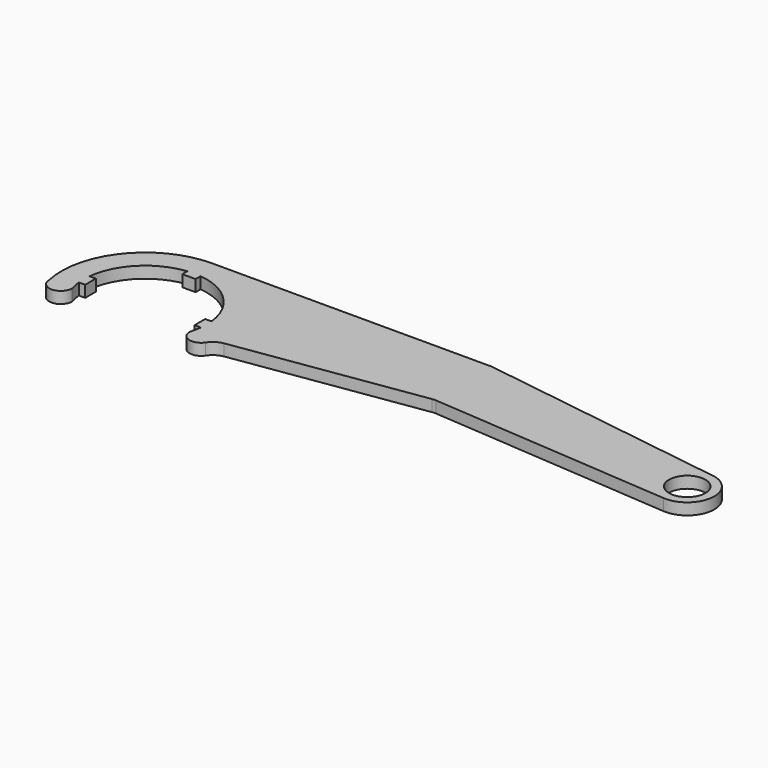
from build123d import *

# Parameters (mm, degrees)
F0_R     = 5.196102
F1_DEPTH = 3.302
F2_R     = 5.08


with BuildPart() as f1:
    # F0 (on Top) → F1 (new body)
    with BuildSketch(Plane.XY):
        with BuildLine():
            ThreePointArc((17.42216, -1.905), (17.171429, -3.507522), (16.773618, -5.08))
            ThreePointArc((16.773618, -5.08), (20.051467, -8.357849), (23.329316, -5.08))
            Line((23.329316, -5.08), (79.846062, 3.404097))
            Line((79.846062, 3.404097), (149.504127, -1.770501))
            ThreePointArc((149.504127, -1.770501), (157.802675, 5.538416), (150.315792, 13.676766))
            Line((150.315792, 13.676766), (79.846062, 23.876))
            Line((79.846062, 23.876), (0, 23.876))
            ThreePointArc((0, 23.876), (-18.592384, 14.979541), (-23.329316, -5.08))
            ThreePointArc((-23.329316, -5.08), (-20.051467, -8.357849), (-16.773618, -5.08))
            ThreePointArc((-16.773618, -5.08), (-17.171429, -3.507522), (-17.42216, -1.905))
            ThreePointArc((-17.42216, -1.905), (-17.526, 0), (-17.42216, 1.905))
            ThreePointArc((-17.42216, 1.905), (-12.392753, 12.392753), (-1.905, 17.42216))
            ThreePointArc((-1.905, 17.42216), (0, 17.526), (1.905, 17.42216))
            ThreePointArc((1.905, 17.42216), (12.392753, 12.392753), (17.42216, 1.905))
            ThreePointArc((17.42216, 1.905), (17.526, 0), (17.42216, -1.905))
        make_face()
        with Locations((150.07723, 5.944343)):
            Circle(F0_R, mode=Mode.SUBTRACT)
        with BuildLine():
            Line((1.905, 15.621), (1.905, 17.42216))
            ThreePointArc((1.905, 17.42216), (0, 17.526), (-1.905, 17.42216))
            Line((-1.905, 17.42216), (-1.905, 15.621))
            Line((-1.905, 15.621), (1.905, 15.621))
        make_face()
        with BuildLine():
            Line((15.621, -1.905), (17.42216, -1.905))
            ThreePointArc((17.42216, -1.905), (17.526, 0), (17.42216, 1.905))
            Line((17.42216, 1.905), (15.621, 1.905))
            Line((15.621, 1.905), (15.621, -1.905))
        make_face()
        with BuildLine():
            Line((-15.621, 1.905), (-17.42216, 1.905))
            ThreePointArc((-17.42216, 1.905), (-17.526, 0), (-17.42216, -1.905))
            Line((-17.42216, -1.905), (-15.621, -1.905))
            Line((-15.621, -1.905), (-15.621, 1.905))
        make_face()
    extrude(amount=F1_DEPTH)

    # F2
    f2_edges = [f1.edges().sort_by_distance(p)[0] for p in [
        (23.329316, -5.08, 1.651),
        (79.846062, 3.404097, 1.651),
        (79.846062, 23.876, 1.651),
    ]]
    fillet(f2_edges, radius=F2_R)


solid = f1.part
